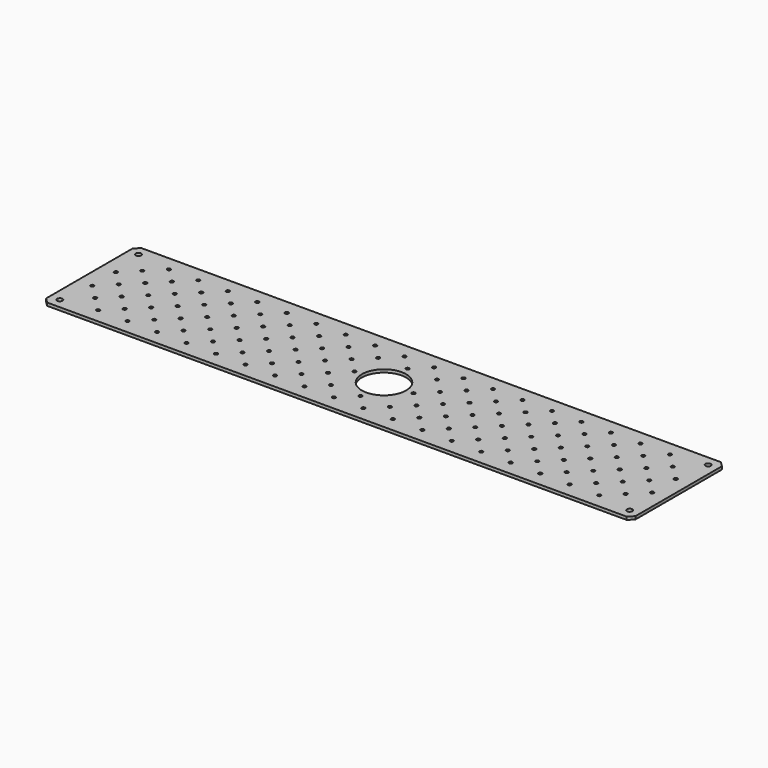
from build123d import *

# Parameters (mm, degrees)
SKETCH_W     = 600
SKETCH_H     = 120
SKETCH_R     = 2.75
SKETCH_R_2   = 1.7
SKETCH_R_3   = 22.5
PAD_DEPTH    = 3
CHAMFER_SIZE = 5


with BuildPart() as part:
    # Sketch → Pad (new body)
    with BuildSketch(Plane.XY):
        with Locations((300, 60)):
            Rectangle(SKETCH_W, SKETCH_H)
        with Locations((10, 10)):
            Circle(SKETCH_R, mode=Mode.SUBTRACT)
        with Locations((10, 110)):
            Circle(SKETCH_R, mode=Mode.SUBTRACT)
        with Locations((590, 110)):
            Circle(SKETCH_R, mode=Mode.SUBTRACT)
        with Locations((590, 10)):
            Circle(SKETCH_R, mode=Mode.SUBTRACT)
        with Locations((30, 90)):
            Circle(SKETCH_R_2, mode=Mode.SUBTRACT)
        with Locations((300, 60)):
            Circle(SKETCH_R_3, mode=Mode.SUBTRACT)
        with Locations((45, 105)):
            Circle(SKETCH_R_2, mode=Mode.SUBTRACT)
        with Locations((75, 105)):
            Circle(SKETCH_R_2, mode=Mode.SUBTRACT)
        with Locations((105, 105)):
            Circle(SKETCH_R_2, mode=Mode.SUBTRACT)
        with Locations((135, 105)):
            Circle(SKETCH_R_2, mode=Mode.SUBTRACT)
        with Locations((165, 105)):
            Circle(SKETCH_R_2, mode=Mode.SUBTRACT)
        with Locations((195, 105)):
            Circle(SKETCH_R_2, mode=Mode.SUBTRACT)
        with Locations((225, 105)):
            Circle(SKETCH_R_2, mode=Mode.SUBTRACT)
        with Locations((255, 105)):
            Circle(SKETCH_R_2, mode=Mode.SUBTRACT)
        with Locations((285, 105)):
            Circle(SKETCH_R_2, mode=Mode.SUBTRACT)
        with Locations((315, 105)):
            Circle(SKETCH_R_2, mode=Mode.SUBTRACT)
        with Locations((345, 105)):
            Circle(SKETCH_R_2, mode=Mode.SUBTRACT)
        with Locations((375, 105)):
            Circle(SKETCH_R_2, mode=Mode.SUBTRACT)
        with Locations((405, 105)):
            Circle(SKETCH_R_2, mode=Mode.SUBTRACT)
        with Locations((435, 105)):
            Circle(SKETCH_R_2, mode=Mode.SUBTRACT)
        with Locations((465, 105)):
            Circle(SKETCH_R_2, mode=Mode.SUBTRACT)
        with Locations((495, 105)):
            Circle(SKETCH_R_2, mode=Mode.SUBTRACT)
        with Locations((525, 105)):
            Circle(SKETCH_R_2, mode=Mode.SUBTRACT)
        with Locations((555, 105)):
            Circle(SKETCH_R_2, mode=Mode.SUBTRACT)
        with Locations((15, 75)):
            Circle(SKETCH_R_2, mode=Mode.SUBTRACT)
        with Locations((45, 75)):
            Circle(SKETCH_R_2, mode=Mode.SUBTRACT)
        with Locations((75, 75)):
            Circle(SKETCH_R_2, mode=Mode.SUBTRACT)
        with Locations((105, 75)):
            Circle(SKETCH_R_2, mode=Mode.SUBTRACT)
        with Locations((135, 75)):
            Circle(SKETCH_R_2, mode=Mode.SUBTRACT)
        with Locations((165, 75)):
            Circle(SKETCH_R_2, mode=Mode.SUBTRACT)
        with Locations((195, 75)):
            Circle(SKETCH_R_2, mode=Mode.SUBTRACT)
        with Locations((225, 75)):
            Circle(SKETCH_R_2, mode=Mode.SUBTRACT)
        with Locations((255, 75)):
            Circle(SKETCH_R_2, mode=Mode.SUBTRACT)
        with Locations((345, 75)):
            Circle(SKETCH_R_2, mode=Mode.SUBTRACT)
        with Locations((375, 75)):
            Circle(SKETCH_R_2, mode=Mode.SUBTRACT)
        with Locations((405, 75)):
            Circle(SKETCH_R_2, mode=Mode.SUBTRACT)
        with Locations((435, 75)):
            Circle(SKETCH_R_2, mode=Mode.SUBTRACT)
        with Locations((465, 75)):
            Circle(SKETCH_R_2, mode=Mode.SUBTRACT)
        with Locations((495, 75)):
            Circle(SKETCH_R_2, mode=Mode.SUBTRACT)
        with Locations((525, 75)):
            Circle(SKETCH_R_2, mode=Mode.SUBTRACT)
        with Locations((555, 75)):
            Circle(SKETCH_R_2, mode=Mode.SUBTRACT)
        with Locations((585, 75)):
            Circle(SKETCH_R_2, mode=Mode.SUBTRACT)
        with Locations((15, 45)):
            Circle(SKETCH_R_2, mode=Mode.SUBTRACT)
        with Locations((45, 45)):
            Circle(SKETCH_R_2, mode=Mode.SUBTRACT)
        with Locations((75, 45)):
            Circle(SKETCH_R_2, mode=Mode.SUBTRACT)
        with Locations((105, 45)):
            Circle(SKETCH_R_2, mode=Mode.SUBTRACT)
        with Locations((135, 45)):
            Circle(SKETCH_R_2, mode=Mode.SUBTRACT)
        with Locations((165, 45)):
            Circle(SKETCH_R_2, mode=Mode.SUBTRACT)
        with Locations((195, 45)):
            Circle(SKETCH_R_2, mode=Mode.SUBTRACT)
        with Locations((225, 45)):
            Circle(SKETCH_R_2, mode=Mode.SUBTRACT)
        with Locations((255, 45)):
            Circle(SKETCH_R_2, mode=Mode.SUBTRACT)
        with Locations((345, 45)):
            Circle(SKETCH_R_2, mode=Mode.SUBTRACT)
        with Locations((375, 45)):
            Circle(SKETCH_R_2, mode=Mode.SUBTRACT)
        with Locations((405, 45)):
            Circle(SKETCH_R_2, mode=Mode.SUBTRACT)
        with Locations((435, 45)):
            Circle(SKETCH_R_2, mode=Mode.SUBTRACT)
        with Locations((465, 45)):
            Circle(SKETCH_R_2, mode=Mode.SUBTRACT)
        with Locations((495, 45)):
            Circle(SKETCH_R_2, mode=Mode.SUBTRACT)
        with Locations((525, 45)):
            Circle(SKETCH_R_2, mode=Mode.SUBTRACT)
        with Locations((555, 45)):
            Circle(SKETCH_R_2, mode=Mode.SUBTRACT)
        with Locations((585, 45)):
            Circle(SKETCH_R_2, mode=Mode.SUBTRACT)
        with Locations((45, 15)):
            Circle(SKETCH_R_2, mode=Mode.SUBTRACT)
        with Locations((75, 15)):
            Circle(SKETCH_R_2, mode=Mode.SUBTRACT)
        with Locations((105, 15)):
            Circle(SKETCH_R_2, mode=Mode.SUBTRACT)
        with Locations((135, 15)):
            Circle(SKETCH_R_2, mode=Mode.SUBTRACT)
        with Locations((165, 15)):
            Circle(SKETCH_R_2, mode=Mode.SUBTRACT)
        with Locations((195, 15)):
            Circle(SKETCH_R_2, mode=Mode.SUBTRACT)
        with Locations((225, 15)):
            Circle(SKETCH_R_2, mode=Mode.SUBTRACT)
        with Locations((255, 15)):
            Circle(SKETCH_R_2, mode=Mode.SUBTRACT)
        with Locations((285, 15)):
            Circle(SKETCH_R_2, mode=Mode.SUBTRACT)
        with Locations((315, 15)):
            Circle(SKETCH_R_2, mode=Mode.SUBTRACT)
        with Locations((345, 15)):
            Circle(SKETCH_R_2, mode=Mode.SUBTRACT)
        with Locations((375, 15)):
            Circle(SKETCH_R_2, mode=Mode.SUBTRACT)
        with Locations((405, 15)):
            Circle(SKETCH_R_2, mode=Mode.SUBTRACT)
        with Locations((435, 15)):
            Circle(SKETCH_R_2, mode=Mode.SUBTRACT)
        with Locations((465, 15)):
            Circle(SKETCH_R_2, mode=Mode.SUBTRACT)
        with Locations((495, 15)):
            Circle(SKETCH_R_2, mode=Mode.SUBTRACT)
        with Locations((525, 15)):
            Circle(SKETCH_R_2, mode=Mode.SUBTRACT)
        with Locations((555, 15)):
            Circle(SKETCH_R_2, mode=Mode.SUBTRACT)
        with Locations((60, 90)):
            Circle(SKETCH_R_2, mode=Mode.SUBTRACT)
        with Locations((90, 90)):
            Circle(SKETCH_R_2, mode=Mode.SUBTRACT)
        with Locations((120, 90)):
            Circle(SKETCH_R_2, mode=Mode.SUBTRACT)
        with Locations((150, 90)):
            Circle(SKETCH_R_2, mode=Mode.SUBTRACT)
        with Locations((180, 90)):
            Circle(SKETCH_R_2, mode=Mode.SUBTRACT)
        with Locations((210, 90)):
            Circle(SKETCH_R_2, mode=Mode.SUBTRACT)
        with Locations((240, 90)):
            Circle(SKETCH_R_2, mode=Mode.SUBTRACT)
        with Locations((270, 90)):
            Circle(SKETCH_R_2, mode=Mode.SUBTRACT)
        with Locations((300, 90)):
            Circle(SKETCH_R_2, mode=Mode.SUBTRACT)
        with Locations((330, 90)):
            Circle(SKETCH_R_2, mode=Mode.SUBTRACT)
        with Locations((360, 90)):
            Circle(SKETCH_R_2, mode=Mode.SUBTRACT)
        with Locations((390, 90)):
            Circle(SKETCH_R_2, mode=Mode.SUBTRACT)
        with Locations((420, 90)):
            Circle(SKETCH_R_2, mode=Mode.SUBTRACT)
        with Locations((450, 90)):
            Circle(SKETCH_R_2, mode=Mode.SUBTRACT)
        with Locations((480, 90)):
            Circle(SKETCH_R_2, mode=Mode.SUBTRACT)
        with Locations((510, 90)):
            Circle(SKETCH_R_2, mode=Mode.SUBTRACT)
        with Locations((540, 90)):
            Circle(SKETCH_R_2, mode=Mode.SUBTRACT)
        with Locations((570, 90)):
            Circle(SKETCH_R_2, mode=Mode.SUBTRACT)
        with Locations((30, 60)):
            Circle(SKETCH_R_2, mode=Mode.SUBTRACT)
        with Locations((60, 60)):
            Circle(SKETCH_R_2, mode=Mode.SUBTRACT)
        with Locations((90, 60)):
            Circle(SKETCH_R_2, mode=Mode.SUBTRACT)
        with Locations((120, 60)):
            Circle(SKETCH_R_2, mode=Mode.SUBTRACT)
        with Locations((150, 60)):
            Circle(SKETCH_R_2, mode=Mode.SUBTRACT)
        with Locations((180, 60)):
            Circle(SKETCH_R_2, mode=Mode.SUBTRACT)
        with Locations((210, 60)):
            Circle(SKETCH_R_2, mode=Mode.SUBTRACT)
        with Locations((240, 60)):
            Circle(SKETCH_R_2, mode=Mode.SUBTRACT)
        with Locations((270, 60)):
            Circle(SKETCH_R_2, mode=Mode.SUBTRACT)
        with Locations((330, 60)):
            Circle(SKETCH_R_2, mode=Mode.SUBTRACT)
        with Locations((360, 60)):
            Circle(SKETCH_R_2, mode=Mode.SUBTRACT)
        with Locations((390, 60)):
            Circle(SKETCH_R_2, mode=Mode.SUBTRACT)
        with Locations((420, 60)):
            Circle(SKETCH_R_2, mode=Mode.SUBTRACT)
        with Locations((450, 60)):
            Circle(SKETCH_R_2, mode=Mode.SUBTRACT)
        with Locations((480, 60)):
            Circle(SKETCH_R_2, mode=Mode.SUBTRACT)
        with Locations((510, 60)):
            Circle(SKETCH_R_2, mode=Mode.SUBTRACT)
        with Locations((540, 60)):
            Circle(SKETCH_R_2, mode=Mode.SUBTRACT)
        with Locations((570, 60)):
            Circle(SKETCH_R_2, mode=Mode.SUBTRACT)
        with Locations((30, 30)):
            Circle(SKETCH_R_2, mode=Mode.SUBTRACT)
        with Locations((60, 30)):
            Circle(SKETCH_R_2, mode=Mode.SUBTRACT)
        with Locations((90, 30)):
            Circle(SKETCH_R_2, mode=Mode.SUBTRACT)
        with Locations((120, 30)):
            Circle(SKETCH_R_2, mode=Mode.SUBTRACT)
        with Locations((150, 30)):
            Circle(SKETCH_R_2, mode=Mode.SUBTRACT)
        with Locations((180, 30)):
            Circle(SKETCH_R_2, mode=Mode.SUBTRACT)
        with Locations((210, 30)):
            Circle(SKETCH_R_2, mode=Mode.SUBTRACT)
        with Locations((240, 30)):
            Circle(SKETCH_R_2, mode=Mode.SUBTRACT)
        with Locations((270, 30)):
            Circle(SKETCH_R_2, mode=Mode.SUBTRACT)
        with Locations((300, 30)):
            Circle(SKETCH_R_2, mode=Mode.SUBTRACT)
        with Locations((330, 30)):
            Circle(SKETCH_R_2, mode=Mode.SUBTRACT)
        with Locations((360, 30)):
            Circle(SKETCH_R_2, mode=Mode.SUBTRACT)
        with Locations((390, 30)):
            Circle(SKETCH_R_2, mode=Mode.SUBTRACT)
        with Locations((420, 30)):
            Circle(SKETCH_R_2, mode=Mode.SUBTRACT)
        with Locations((450, 30)):
            Circle(SKETCH_R_2, mode=Mode.SUBTRACT)
        with Locations((480, 30)):
            Circle(SKETCH_R_2, mode=Mode.SUBTRACT)
        with Locations((510, 30)):
            Circle(SKETCH_R_2, mode=Mode.SUBTRACT)
        with Locations((540, 30)):
            Circle(SKETCH_R_2, mode=Mode.SUBTRACT)
        with Locations((570, 30)):
            Circle(SKETCH_R_2, mode=Mode.SUBTRACT)
    extrude(amount=PAD_DEPTH)

    # Chamfer
    chamfer_edges = [part.edges().sort_by_distance(p)[0] for p in [
        (600, 0, 1.5),
        (600, 120, 1.5),
        (0, 0, 1.5),
        (0, 120, 1.5),
    ]]
    chamfer(chamfer_edges, length=CHAMFER_SIZE)


solid = part.part
